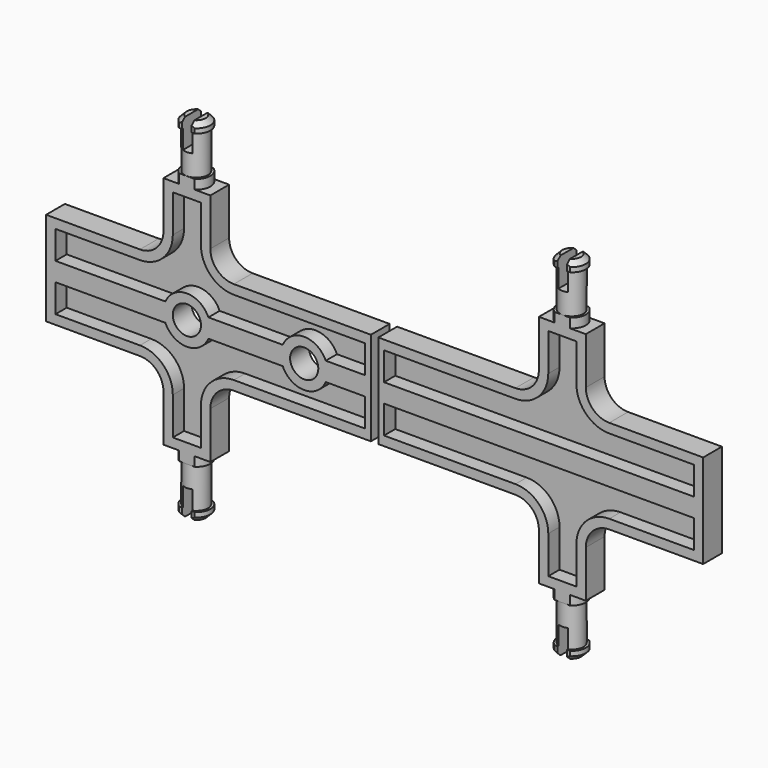
from build123d import *

# Parameters (mm, degrees)
F1_DEPTH  = 2.5
F2_T      = -2
F5_SIZE   = 1
F6_W      = 78.4188154038
F6_H      = 5
F7_DEPTH  = 37.501
F8_W      = 2
F8_H      = 6.9146552976
F9_DEPTH  = 6
F12_R     = 5
F13_DEPTH = 5
F15_D     = 6


with BuildPart() as f1:
    # F0 (on Front) → F1 (new body, symmetric)
    with BuildSketch(Plane.XZ):
        with BuildLine():
            Line((0, 10), (0, 0))
            Line((0, 0), (70, 0))
            Line((70, 0), (70, 10))
            Line((70, 10), (50, 10))
            ThreePointArc((50, 10), (46.4644660941, 11.4644660941), (45, 15))
            Line((45, 15), (45, 25))
            Line((45, 25), (35, 25))
            Line((35, 25), (35, 15))
            ThreePointArc((35, 15), (33.5355339059, 11.4644660941), (30, 10))
            Line((30, 10), (0, 10))
        make_face()
    extrude(amount=F1_DEPTH, both=True)

    # F2
    f2_openings = [f1.faces().sort_by_distance(p)[0] for p in [
        (35.933685, -2.5, 7.254637),
    ]]
    offset(amount=F2_T, openings=f2_openings)

    # F3 (on Front) → F4 (revolve)
    with BuildSketch(Plane.XZ):
        Polygon((37, 27), (37, 25), (40, 25), (40, 37.5), (37, 37.5), (37, 35.5), (37.5, 35.5), (37.5, 27), align=None)
    revolve(axis=Axis((40, 0, 31.25), (0, 0, 1)))

    # F5
    f5_edges = [f1.edges().sort_by_distance(p)[0] for p in [
        (43, 0, 37.5),
    ]]
    chamfer(f5_edges, length=F5_SIZE)

    # F6 (on face) → F7 (intersect, through all)
    with BuildSketch(Plane.XY.offset(37.5)):
        with Locations((40, 0)):
            Rectangle(F6_W, F6_H)
    extrude(amount=-F7_DEPTH, mode=Mode.INTERSECT)

    # F8 (on face) → F9 (cut)
    with BuildSketch(Plane.XY.offset(37.5)):
        with Locations((40, 0)):
            Rectangle(F8_W, F8_H)
    extrude(amount=-F9_DEPTH, mode=Mode.SUBTRACT)

    # F10: F1 across plane


with BuildPart() as f1_1:
    add(f1.part)
    add(f1.part.mirror(Plane.XY))


with BuildPart() as f11_1:
    # F11: instance of F1
    add(f1_1.part.mirror(Plane.YZ))

    # F12 (on face) → F13 (join, through all)
    with BuildSketch(Plane.XZ.offset(2.5)):
        with Locations((-40, 0)):
            Circle(F12_R)
        with Locations((-15, 0)):
            Circle(F12_R)
    extrude(amount=-F13_DEPTH)

    # F15 (through all)
    with Locations(Plane.XZ.offset(2.5)):
        with Locations((-40, 0), (-15, 0)):
            Hole(F15_D / 2)


solid = Compound([f1_1.part, f11_1.part])
